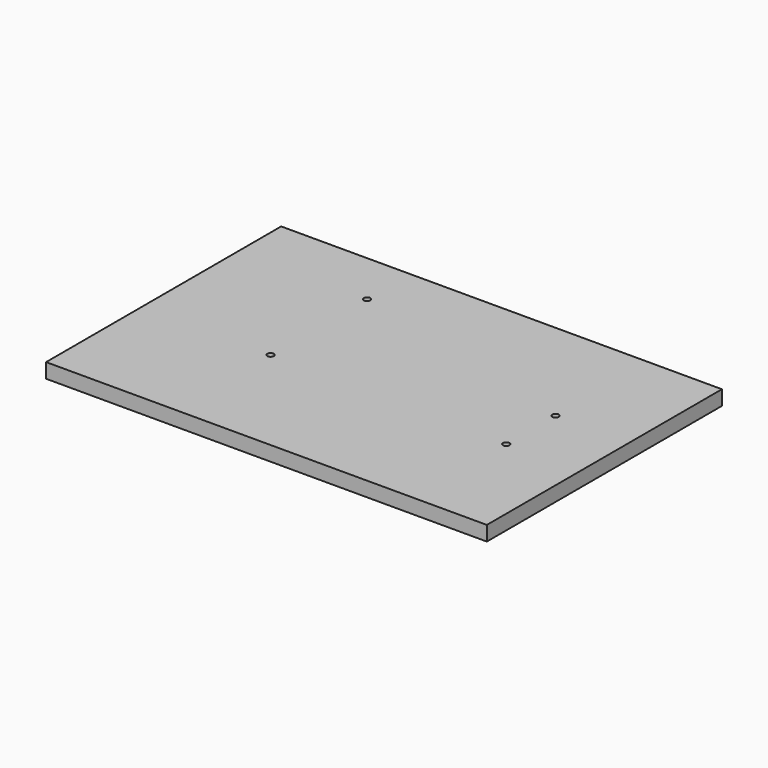
from build123d import *

# Parameters (mm, degrees)
F0_W     = 300
F0_H     = 200
F1_DEPTH = 10
F2_D     = 4.4


with BuildPart() as f1:
    # F0 (on Top) → F1 (new body)
    with BuildSketch(Plane.XY):
        with Locations((150, 100)):
            Rectangle(F0_W, F0_H)
    extrude(amount=F1_DEPTH)

    # F2 (through all)
    with Locations(Plane(origin=(0, 0, 0), x_dir=(1, 0, 0), z_dir=(0, 0, -1))):
        with Locations((250, -121), (250, -79), (88, -81), (88, -163.1)):
            Hole(F2_D / 2)


solid = f1.part
